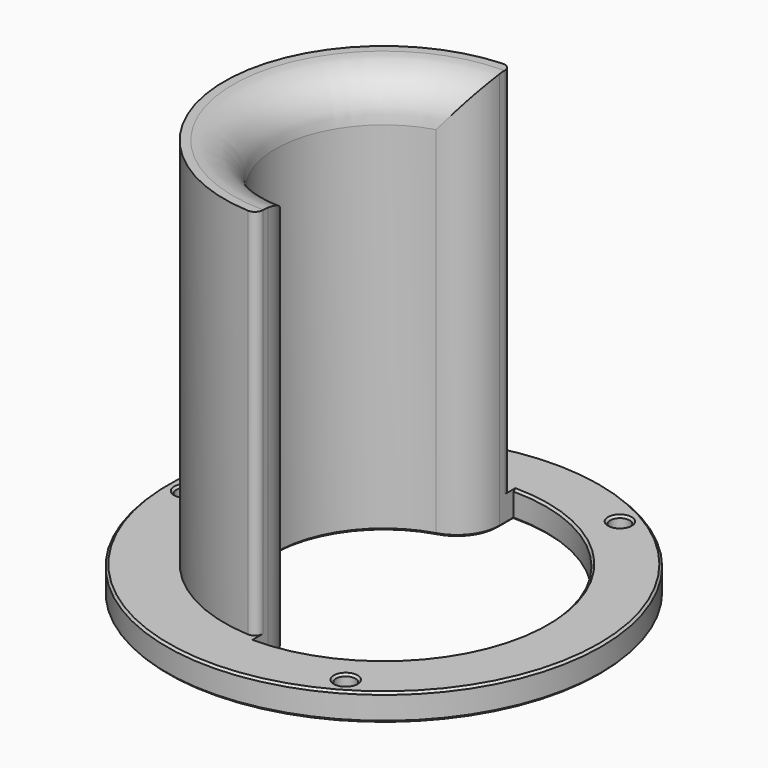
from build123d import *

# Parameters (mm, degrees)
SKETCH_R     = 40.2
SKETCH_R_2   = 20
PAD_DEPTH    = 5
PAD001_DEPTH = 74
POCKET_DEPTH = 5
FILLET_R     = 1.5
FILLET001_R  = 7.9
SKETCH003_R  = 1.8
HOLE_DEPTH   = 5
CHAMFER_SIZE = 0.4


with BuildPart() as part:
    # Sketch → Pad (new body)
    with BuildSketch(Plane.XY):
        Circle(SKETCH_R)
        Circle(SKETCH_R_2, mode=Mode.SUBTRACT)
    extrude(amount=PAD_DEPTH)

    # Sketch001 → Pad001 (join)
    with BuildSketch(Plane.XY):
        with BuildLine():
            ThreePointArc((0, 29.5), (-29.5, 0), (0, -29.5))
            Line((0, -20), (0, -29.5))
            ThreePointArc((0, 20), (-20, 0), (0, -20))
            Line((0, 29.5), (0, 20))
        make_face()
    extrude(amount=PAD001_DEPTH)

    # Sketch002 → Pocket (cut)
    with BuildSketch(Plane.XY):
        with BuildLine():
            ThreePointArc((0, -30), (30, 0), (0, 30))
            Line((0, 30), (0, 20))
            ThreePointArc((0, -20), (20, 0), (0, 20))
            Line((0, -20), (0, -30))
        make_face()
    extrude(amount=POCKET_DEPTH, mode=Mode.SUBTRACT)

    # Fillet
    fillet_edges = [part.edges().sort_by_distance(p)[0] for p in [
        (0, -29.5, 39.5),
        (0, 29.5, 39.5),
    ]]
    fillet(fillet_edges, radius=FILLET_R)

    # Fillet001
    fillet001_edges = [part.edges().sort_by_distance(p)[0] for p in [
        (-20, 0, 74),
        (0, -20, 39.5),
        (0, 20, 39.5),
    ]]
    fillet(fillet001_edges, radius=FILLET001_R)

    # Sketch003 → Hole (cut)
    with BuildSketch(Plane.XY):
        with Locations((-36.6, 0)):
            Circle(SKETCH003_R)
        with Locations((18.3, 31.69653)):
            Circle(SKETCH003_R)
        with Locations((18.3, -31.69653)):
            Circle(SKETCH003_R)
    extrude(amount=HOLE_DEPTH, mode=Mode.SUBTRACT)

    # Chamfer
    chamfer_edges = [part.edges().sort_by_distance(p)[0] for p in [
        (-40.2, 0, 5),
        (20.1, -31.69653, 5),
        (20.1, 31.69653, 5),
        (30, 0, 5),
        (-40.2, 0, 0),
        (30, 0, 0),
        (20.1, -31.69653, 0),
        (20.1, 31.69653, 0),
        (-34.8, 0, 0),
        (0, -29.75, 0),
        (0, -28.129088, 0),
        (-1.572218, -22.02857, 0),
        (-20, 0, 0),
        (-1.572218, 22.02857, 0),
        (0, 29.75, 0),
        (0, 28.129088, 0),
        (-34.8, 0, 5),
    ]]
    chamfer(chamfer_edges, length=CHAMFER_SIZE)


solid = part.part
